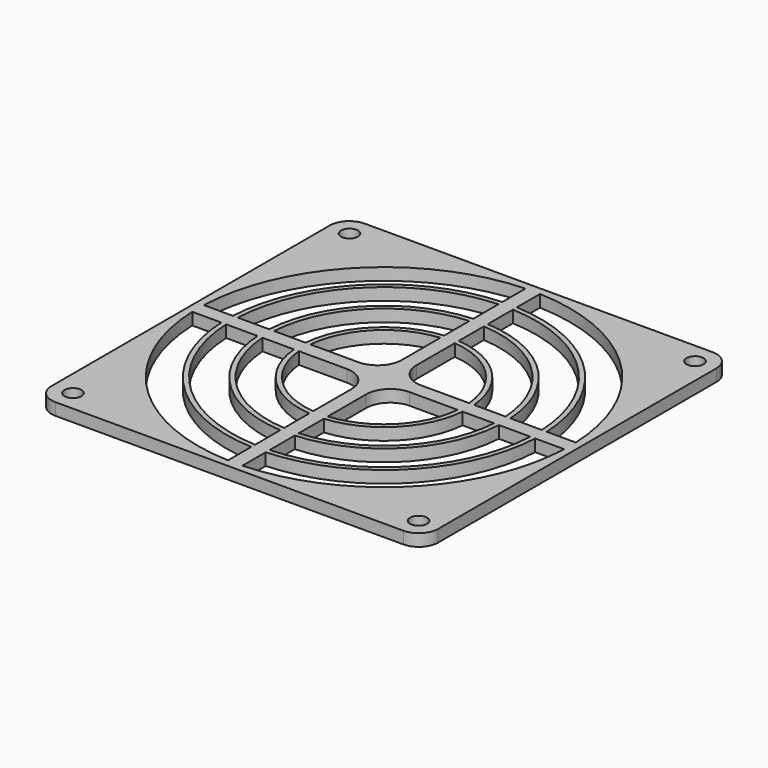
from build123d import *

# Parameters (mm, degrees)
SKETCH_W      = 80
SKETCH_H      = 80
PAD_DEPTH     = 2.5
SKETCH001_R   = 38.5
SKETCH001_R_2 = 1.75
POCKET_DEPTH  = 5
PAD001_DEPTH  = 2.5
SKETCH003_R   = 32.5
SKETCH003_R_2 = 31.5
PAD002_DEPTH  = 2.5
SKETCH004_R   = 25
SKETCH004_R_2 = 24
PAD003_DEPTH  = 2.5
SKETCH005_R   = 17.5
SKETCH005_R_2 = 16.5
PAD004_DEPTH  = 2.5
FILLET_R      = 4
FILLET001_R   = 5


with BuildPart() as part:
    # Sketch → Pad (new body)
    with BuildSketch(Plane.XY):
        Rectangle(SKETCH_W, SKETCH_H)
    extrude(amount=PAD_DEPTH)

    # Sketch001 (on Face6 of Pad) → Pocket (cut)
    with BuildSketch(Plane.XY.offset(2.5)):
        Circle(SKETCH001_R)
        with Locations((35.75, 35.75)):
            Circle(SKETCH001_R_2)
        with Locations((-35.75, 35.75)):
            Circle(SKETCH001_R_2)
        with Locations((-35.75, -35.75)):
            Circle(SKETCH001_R_2)
        with Locations((35.75, -35.75)):
            Circle(SKETCH001_R_2)
    extrude(amount=-POCKET_DEPTH, mode=Mode.SUBTRACT)

    # Sketch002 (on Face4 of Pocket) → Pad001 (join)
    with BuildSketch(Plane(origin=(0, 0, 0), x_dir=(1, 0, 0), z_dir=(0, 0, -1))):
        Polygon((1.5, 39.224094), (-1.5, 39.224094), (-1.5, 1.5), (-39.182049, 1.5), (-39.182049, -1.5), (-1.5, -1.5), (-1.5, -39.571514), (1.5, -39.571514), (1.5, -1.5), (38.958385, -1.5), (38.958385, 1.5), (1.5, 1.5), align=None)
    extrude(amount=-PAD001_DEPTH)

    # Sketch003 (on Face23 of Pad001) → Pad002 (join)
    with BuildSketch(Plane(origin=(0, 0, 0), x_dir=(1, 0, 0), z_dir=(0, 0, -1))):
        Circle(SKETCH003_R)
        Circle(SKETCH003_R_2, mode=Mode.SUBTRACT)
    extrude(amount=-PAD002_DEPTH)

    # Sketch004 (on Face53 of Pad002) → Pad003 (join)
    with BuildSketch(Plane(origin=(0, 0, 0), x_dir=(1, 0, 0), z_dir=(0, 0, -1))):
        Circle(SKETCH004_R)
        Circle(SKETCH004_R_2, mode=Mode.SUBTRACT)
    extrude(amount=-PAD003_DEPTH)

    # Sketch005 (on Face89 of Pad003) → Pad004 (join)
    with BuildSketch(Plane(origin=(0, 0, 0), x_dir=(1, 0, 0), z_dir=(0, 0, -1))):
        Circle(SKETCH005_R)
        Circle(SKETCH005_R_2, mode=Mode.SUBTRACT)
    extrude(amount=-PAD004_DEPTH)

    # Fillet
    fillet_edges = [part.edges().sort_by_distance(p)[0] for p in [
        (-40, 40, 1.25),
        (40, 40, 1.25),
        (40, -40, 1.25),
        (-40, -40, 1.25),
    ]]
    fillet(fillet_edges, radius=FILLET_R)

    # Fillet001
    fillet001_edges = [part.edges().sort_by_distance(p)[0] for p in [
        (-1.5, 1.5, 1.25),
        (-1.5, -1.5, 1.25),
        (1.5, -1.5, 1.25),
        (1.5, 1.5, 1.25),
    ]]
    fillet(fillet001_edges, radius=FILLET001_R)


solid = part.part
